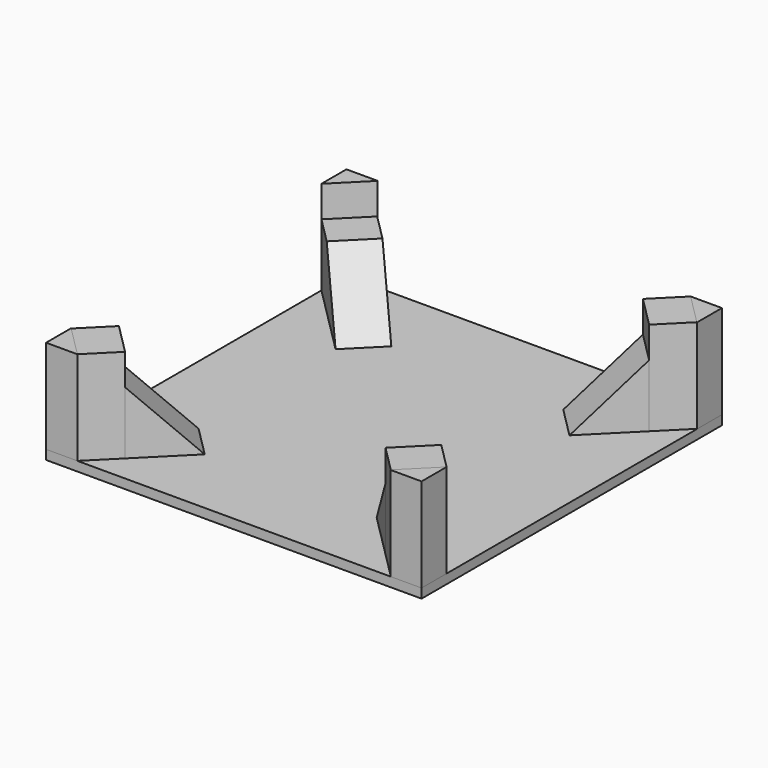
from build123d import *

# Parameters (mm, degrees)
F0_W      = 1200
F0_H      = 1200
F1_DEPTH  = 30
F3_DEPTH  = 300
F7_DEPTH  = 140
F9_ANGLE  = 180
F10_DEPTH = 140
F11_ANGLE = 90
F12_ANGLE = 270
F13_ANGLE = 90
F14_ANGLE = 180
F15_ANGLE = 270
F16_ANGLE = 90
F17_ANGLE = 180
F18_ANGLE = 270
F20_DEPTH = 119.8174593052


with BuildPart() as f1:
    # F0 (on Top) → F1 (new body)
    with BuildSketch(Plane.XY):
        Rectangle(F0_W, F0_H)
    extrude(amount=-F1_DEPTH)



with BuildPart() as f3:
    # F2 (on face) → F3 (new body)
    with BuildSketch(Plane.XY):
        Polygon((-600, -500), (-600, -600), (-500, -600), align=None)
    extrude(amount=F3_DEPTH)


with BuildPart() as f7:
    # F6 (on face) → F7 (new body)
    with BuildSketch(Plane(origin=(50, -50, 0), x_dir=(-0.7071067812, -0.7071067812, 0), z_dir=(-0.7071067812, 0.7071067812, 0))):
        Polygon((658, 0), (658, 200), (458, 0), align=None)
    extrude(amount=F7_DEPTH)


with BuildPart() as f9_1:
    # F9: copy of F7
    add(f7.part.rotate(Axis((0, 0, 150), (0, 0, 1)), F9_ANGLE))


with BuildPart() as f10:
    # F6 (on face) → F10 (new body)
    with BuildSketch(Plane(origin=(50, -50, 0), x_dir=(-0.7071067812, -0.7071067812, 0), z_dir=(-0.7071067812, 0.7071067812, 0))):
        Polygon((777.8174593052, 200), (777.8174593052, 300), (658, 300), (658, 200), (658, 0), (777.8174593052, 0), align=None)
    extrude(amount=F10_DEPTH)


with BuildPart() as f11_1:
    # F11: copy of F7
    add(f7.part.rotate(Axis((0, 0, 150), (0, 0, 1)), F11_ANGLE))


with BuildPart() as f12_1:
    # F12: copy of F7
    add(f7.part.rotate(Axis((0, 0, 150), (0, 0, 1)), F12_ANGLE))


with BuildPart() as f13_1:
    # F13: copy of F10
    add(f10.part.rotate(Axis((0, 0, 150), (0, 0, 1)), F13_ANGLE))


with BuildPart() as f14_1:
    # F14: copy of F10
    add(f10.part.rotate(Axis((0, 0, 150), (0, 0, 1)), F14_ANGLE))


with BuildPart() as f15_1:
    # F15: copy of F10
    add(f10.part.rotate(Axis((0, 0, 150), (0, 0, 1)), F15_ANGLE))


with BuildPart() as f16_1:
    # F16: copy of F3
    add(f3.part.rotate(Axis((0, 0, 150), (0, 0, 1)), F16_ANGLE))


with BuildPart() as f17_1:
    # F17: copy of F3
    add(f3.part.rotate(Axis((0, 0, 150), (0, 0, 1)), F17_ANGLE))


with BuildPart() as f18_1:
    # F18: copy of F3
    add(f3.part.rotate(Axis((0, 0, 150), (0, 0, 1)), F18_ANGLE))


with BuildPart() as f1_1:
    add(f1.part)
    # F20 (add, through all): a face of the model
    f20_faces = [f12_1.part.faces().sort_by_distance(p)[0] for p in [
        (-465.7787873377, 464.7737367038, 100),
    ]]

    add(f12_1.part)  # F20 merges F12_1

    add(f18_1.part)  # F20 merges F18_1
    extrude(f20_faces, amount=F20_DEPTH)


solid = Compound([f3.part, f7.part, f9_1.part, f10.part, f11_1.part, f13_1.part, f14_1.part, f16_1.part, f17_1.part, f1_1.part])
